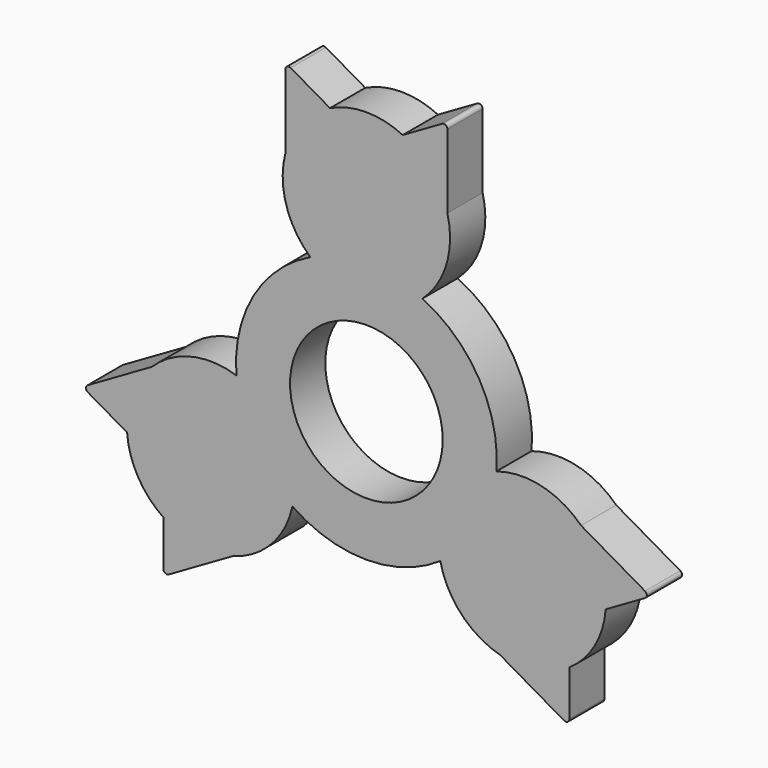
from build123d import *

# Parameters (mm, degrees)
F0_R     = 11
F1_DEPTH = 6.35
F2_R     = 0.508


with BuildPart() as f1:
    # F0 (on Front) → F1 (new body)
    with BuildSketch(Plane.XZ):
        with BuildLine():
            ThreePointArc((30.936552, -4.382146), (25.241854, -1.227006), (18.736838, -1.490146))
            ThreePointArc((18.736838, -1.490146), (16.277813, 9.398), (8.077915, 16.97165))
            ThreePointArc((8.077915, 16.97165), (11.558309, 22.47359), (11.673226, 28.982913))
            ThreePointArc((11.673226, 28.982913), (9.316126, 33.599741), (5.239277, 36.801355))
            ThreePointArc((5.239277, 36.801355), (0, 37.99832), (-5.239277, 36.801355))
            ThreePointArc((-5.239277, 36.801355), (-9.316126, 33.599741), (-11.673226, 28.982913))
            ThreePointArc((-11.673226, 28.982913), (-11.558309, 22.47359), (-8.077915, 16.97165))
            ThreePointArc((-8.077915, 16.97165), (-16.277813, 9.398), (-18.736838, -1.490146))
            ThreePointArc((-18.736838, -1.490146), (-25.241854, -1.227006), (-30.936552, -4.382146))
            ThreePointArc((-30.936552, -4.382146), (-33.756293, -8.731869), (-34.490547, -13.86333))
            ThreePointArc((-34.490547, -13.86333), (-32.90751, -18.99916), (-29.25127, -22.938025))
            ThreePointArc((-29.25127, -22.938025), (-24.440167, -24.867872), (-19.263326, -24.600767))
            ThreePointArc((-19.263326, -24.600767), (-13.683546, -21.246584), (-10.658923, -15.481504))
            ThreePointArc((-10.658923, -15.481504), (0, -18.796), (10.658923, -15.481504))
            ThreePointArc((10.658923, -15.481504), (13.683546, -21.246584), (19.263326, -24.600767))
            ThreePointArc((19.263326, -24.600767), (24.440167, -24.867872), (29.25127, -22.938025))
            ThreePointArc((29.25127, -22.938025), (32.90751, -18.99916), (34.490547, -13.86333))
            ThreePointArc((34.490547, -13.86333), (33.756293, -8.731869), (30.936552, -4.382146))
        make_face()
        Circle(F0_R, mode=Mode.SUBTRACT)
        with BuildLine():
            Line((40.924496, -10.148688), (30.936552, -4.382146))
            ThreePointArc((30.936552, -4.382146), (33.756293, -8.731869), (34.490547, -13.86333))
            Line((34.490547, -13.86333), (40.924496, -10.148688))
        make_face()
        with BuildLine():
            ThreePointArc((5.239277, 36.801355), (9.316126, 33.599741), (11.673226, 28.982913))
            Line((11.673226, 28.982913), (11.673226, 40.515997))
            Line((11.673226, 40.515997), (5.239277, 36.801355))
        make_face()
        with BuildLine():
            Line((29.25127, -30.367309), (29.25127, -22.938025))
            ThreePointArc((29.25127, -22.938025), (24.440167, -24.867872), (19.263326, -24.600767))
            Line((19.263326, -24.600767), (29.25127, -30.367309))
        make_face()
        with BuildLine():
            ThreePointArc((-11.673226, 28.982913), (-9.316126, 33.599741), (-5.239277, 36.801355))
            Line((-5.239277, 36.801355), (-11.673226, 40.515997))
            Line((-11.673226, 40.515997), (-11.673226, 28.982913))
        make_face()
        with BuildLine():
            Line((-29.25127, -30.367309), (-19.263326, -24.600767))
            ThreePointArc((-19.263326, -24.600767), (-24.440167, -24.867872), (-29.25127, -22.938025))
            Line((-29.25127, -22.938025), (-29.25127, -30.367309))
        make_face()
        with BuildLine():
            ThreePointArc((-34.490547, -13.86333), (-33.756293, -8.731869), (-30.936552, -4.382146))
            Line((-30.936552, -4.382146), (-40.924496, -10.148688))
            Line((-40.924496, -10.148688), (-34.490547, -13.86333))
        make_face()
    extrude(amount=F1_DEPTH)

    # F2
    f2_edges = [f1.edges().sort_by_distance(p)[0] for p in [
        (-11.673226, -3.175, 40.515997),
        (11.673226, -3.175, 40.515997),
        (40.924496, -3.175, -10.148688),
        (29.25127, -3.175, -30.367309),
        (-29.25127, -3.175, -30.367309),
        (-40.924496, -3.175, -10.148688),
    ]]
    fillet(f2_edges, radius=F2_R)


solid = f1.part
